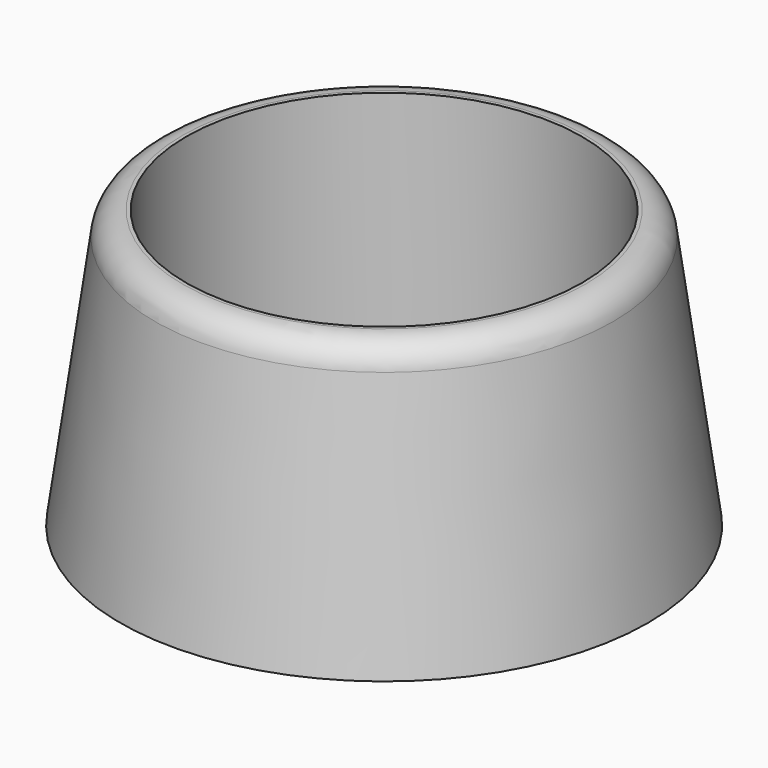
from build123d import *

# Parameters (mm, degrees)
SKETCH001_R   = 5.5
POCKET_DEPTH  = 2.001
FILLET_R      = 2
CHAMFER_SIZE2 = 1.5
CHAMFER_SIZE  = 1


with BuildPart() as part:
    # Sketch → Revolution (revolve)
    with BuildSketch(Plane.XZ):
        Polygon((0, 0), (0, 2), (14.25, 2), (14.25, 20), (16.25, 20), (19, 0), align=None)
    revolve(axis=Axis((0, 0, 0), (0, 0, 1)))

    # Sketch001 (on Face1 of Revolution) → Pocket (cut, through all)
    with BuildSketch(Plane(origin=(0, 0, 2), x_dir=(-1, 0, 0), z_dir=(0, 0, 1))):
        with Locations((0, -2)):
            Circle(SKETCH001_R)
        with BuildLine():
            ThreePointArc((2, 8), (0, 10), (-2, 8))
            Line((-2, 8), (-2, -2))
            ThreePointArc((-2, -2), (0, -4), (2, -2))
            Line((2, 8), (2, -2))
        make_face()
    extrude(amount=-POCKET_DEPTH, mode=Mode.SUBTRACT)

    # Fillet
    fillet_edges = [part.edges().sort_by_distance(p)[0] for p in [
        (-16.25, 0, 20),
    ]]
    fillet(fillet_edges, radius=FILLET_R)

    # Chamfer
    chamfer_edges = [part.edges().sort_by_distance(p)[0] for p in [
        (-4.541476, -1.102418, 2),
        (3.102418, 6.541476, 2),
        (2, -5.561738, 2),
        (0, -10, 2),
        (-2, -5.561738, 2),
    ]]
    chamfer_side = part.faces().sort_by_distance((-13.846949, 0, 2))[0]
    chamfer(chamfer_edges, length=CHAMFER_SIZE, length2=CHAMFER_SIZE2, reference=chamfer_side)


solid = part.part
